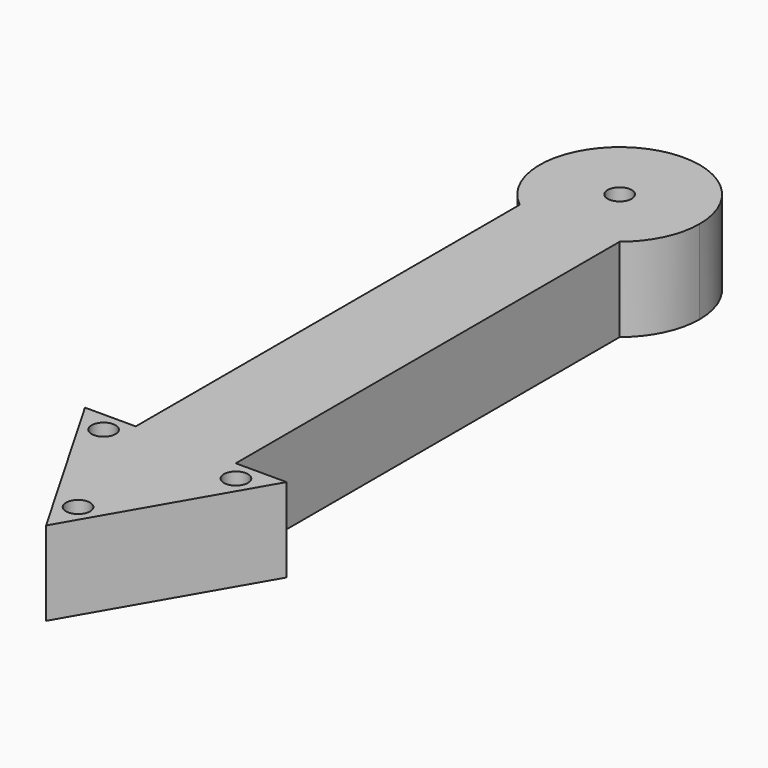
from build123d import *

# Parameters (mm, degrees)
F0_R     = 1.5
F1_DEPTH = 10.5


with BuildPart() as f1:
    # F0 (on Top) → F1 (new body)
    with BuildSketch(Plane.XY):
        with BuildLine():
            ThreePointArc((6.249218, 30.291278), (9.013661, 33.767573), (10, 38.098151))
            ThreePointArc((10, 38.098151), (-4.330578, 47.111813), (-6.249218, 30.291278))
            ThreePointArc((-6.249218, 30.291278), (0, 28.098151), (6.249218, 30.291278))
        make_face()
        with Locations((0, 38.098151)):
            Circle(F0_R, mode=Mode.SUBTRACT)
        with BuildLine():
            ThreePointArc((6.249218, 30.291278), (0, 28.098151), (-6.249218, 30.291278))
            Line((-6.249218, 30.291278), (-6.249218, -29.708722))
            Line((-6.249218, -29.708722), (6.249218, -29.708722))
            Line((6.249218, -29.708722), (6.249218, 30.291278))
        make_face()
        Polygon((6.249218, -29.708722), (-6.249218, -29.708722), (-12.60285, -29.708722), (0, -51.537499), (12.60285, -29.708722), align=None)
        with Locations((-8.272723, -32.208722)):
            Circle(F0_R, mode=Mode.SUBTRACT)
        with Locations((0, -46.537499)):
            Circle(F0_R, mode=Mode.SUBTRACT)
        with Locations((8.272723, -32.208722)):
            Circle(F0_R, mode=Mode.SUBTRACT)
    extrude(amount=F1_DEPTH)


solid = f1.part
